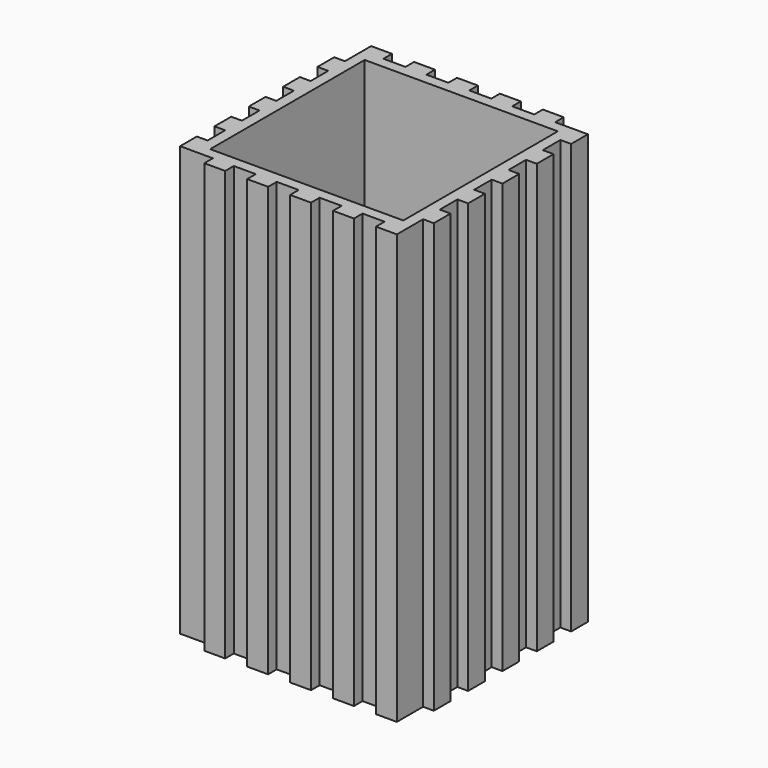
from build123d import *

# Parameters (mm, degrees)
SKETCH_W  = 90
SKETCH_H  = 90
PAD_DEPTH = 200


with BuildPart() as part:
    # Sketch → Pad (new body)
    with BuildSketch(Plane.XY):
        Polygon((-50, 55), (-40.25, 55), (-40.25, 50), (-30, 50), (-30, 55), (-20.25, 55), (-20.25, 50), (-10, 50), (-10, 55), (-0.25, 55), (-0.25, 50), (10, 50), (10, 55), (19.75, 55), (19.75, 50), (30, 50), (30, 55), (39.75, 55), (39.75, 50), (50, 50), (55, 50), (55, 40.25), (50, 40.25), (50, 30), (55, 30), (55, 20.25), (50, 20.25), (50, 10), (55, 10), (55, 0.25), (50, 0.25), (50, -10), (55, -10), (55, -19.75), (50, -19.75), (50, -30), (55, -30), (55, -39.75), (50, -39.75), (50, -50), (50, -55), (40.25, -55), (40.25, -50), (30, -50), (30, -55), (20.25, -55), (20.25, -50), (10, -50), (10, -55), (0.25, -55), (0.25, -50), (-10, -50), (-10, -55), (-19.75, -55), (-19.75, -50), (-30, -50), (-30, -55), (-39.75, -55), (-39.75, -50), (-50, -50), (-55, -50), (-55, -40.25), (-50, -40.25), (-50, -30), (-55, -30), (-55, -20.25), (-50, -20.25), (-50, -10), (-55, -10), (-55, -0.25), (-50, -0.25), (-50, 10), (-55, 10), (-55, 19.75), (-50, 19.75), (-50, 30), (-55, 30), (-55, 39.75), (-50, 39.75), (-50, 50), align=None)
        Rectangle(SKETCH_W, SKETCH_H, mode=Mode.SUBTRACT)
    extrude(amount=PAD_DEPTH)


solid = part.part
